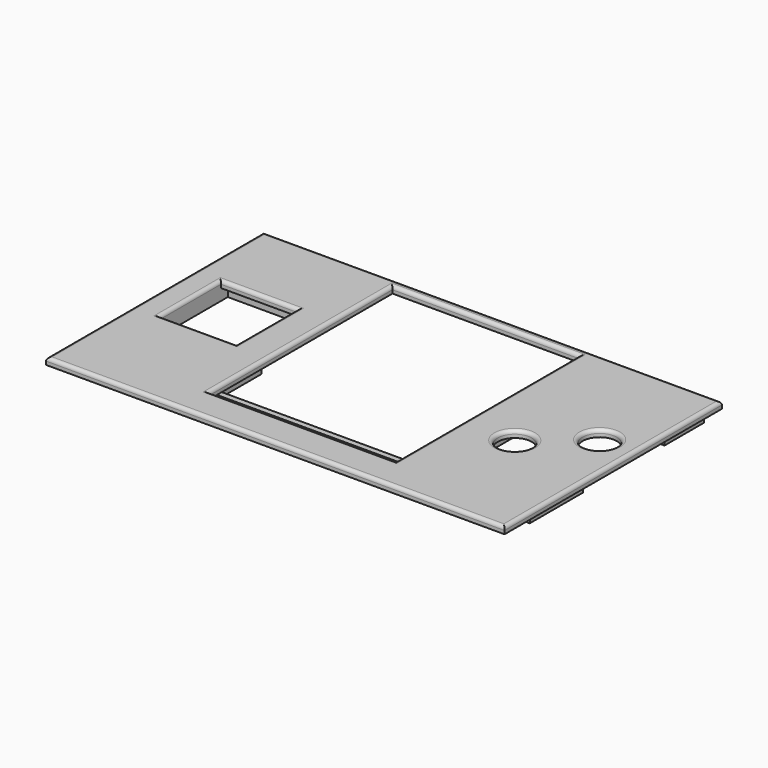
from build123d import *

# Parameters (mm, degrees)
SKETCH026_R  = 1.2
PAD023_DEPTH = 1.67
SKETCH027_R  = 2.5
SKETCH027_W  = 11.25
SKETCH027_H  = 11.25
PAD024_DEPTH = 1
FILLET005_R  = 0.5


with BuildPart() as part:
    # Sketch026 → Pad023 (new body)
    with BuildSketch(Plane.XY):
        Polygon((0.2, -0.2), (15, -0.2), (15, -10), (2.5, -10), (2.5, -22.5), (17.5, -22.5), (17.5, -31.412779), (47.5, -31.412779), (47.5, -2.5), (50, -2.5), (50, -0.2), (64.8, -0.2), (64.8, -7.5), (50, -7.5), (50, -31.412779), (57.5, -31.412779), (57.5, -22.5), (64.8, -22.5), (64.8, -32.3), (60, -32.3), (17.5, -32.3), (0.2, -32.3), (0.2, -22.5), (0.2, -10), align=None)
        with Locations((3.496368, -26.500834)):
            Circle(SKETCH026_R, mode=Mode.SUBTRACT)
        with Locations((3.486166, -3.492743)):
            Circle(SKETCH026_R, mode=Mode.SUBTRACT)
        with Locations((61.502525, -3.493081)):
            Circle(SKETCH026_R, mode=Mode.SUBTRACT)
        with Locations((61.5, -26.5)):
            Circle(SKETCH026_R, mode=Mode.SUBTRACT)
    extrude(amount=PAD023_DEPTH)

    # Sketch027 (on Face30 of Pad023) → Pad024 (join)
    with BuildSketch(Plane.XY.offset(1.67)):
        Polygon((-1.25, 1.25), (18.75, 1.25), (46.25, 1.25), (66.25, 1.25), (66.25, -11.25), (66.25, -18.75), (66.25, -33.75), (66.25, -38.75), (-1.25, -38.75), (-1.25, -33.75), (-1.25, -12.5), align=None)
        with Locations((61.25, -15)):
            Circle(SKETCH027_R, mode=Mode.SUBTRACT)
        with Locations((53.75, -21.25)):
            Circle(SKETCH027_R, mode=Mode.SUBTRACT)
        Polygon((18.75, 0), (18.75, -12.5), (18.75, -33.75), (46.25, -33.75), (46.25, -17.5), (46.25, -11.25), (46.25, 0), align=None, mode=Mode.SUBTRACT)
        with Locations((8.125, -16.875)):
            Rectangle(SKETCH027_W, SKETCH027_H, mode=Mode.SUBTRACT)
    extrude(amount=PAD024_DEPTH)

    # Fillet005
    fillet005_edges = [part.edges().sort_by_distance(p)[0] for p in [
        (-1.25, -5.625, 2.67),
        (8.75, 1.25, 2.67),
        (32.5, 1.25, 2.67),
        (56.25, 1.25, 2.67),
        (66.25, -5, 2.67),
        (66.25, -15, 2.67),
        (66.25, -26.25, 2.67),
        (66.25, -36.25, 2.67),
        (32.5, -38.75, 2.67),
        (-1.25, -36.25, 2.67),
        (-1.25, -23.125, 2.67),
        (18.75, -6.25, 2.67),
        (18.75, -23.125, 2.67),
        (32.5, -33.75, 2.67),
        (46.25, -25.625, 2.67),
        (46.25, -14.375, 2.67),
        (46.25, -5.625, 2.67),
        (32.5, 0, 2.67),
        (2.5, -16.875, 2.67),
        (8.125, -22.5, 2.67),
        (13.75, -16.875, 2.67),
        (8.125, -11.25, 2.67),
        (51.25, -21.25, 2.67),
        (58.75, -15, 2.67),
    ]]
    fillet(fillet005_edges, radius=FILLET005_R)


with BuildPart() as part_1:
    # Body004 placement: moved
    add(part.part.moved(Location((0, 0, 14))))


solid = part_1.part
